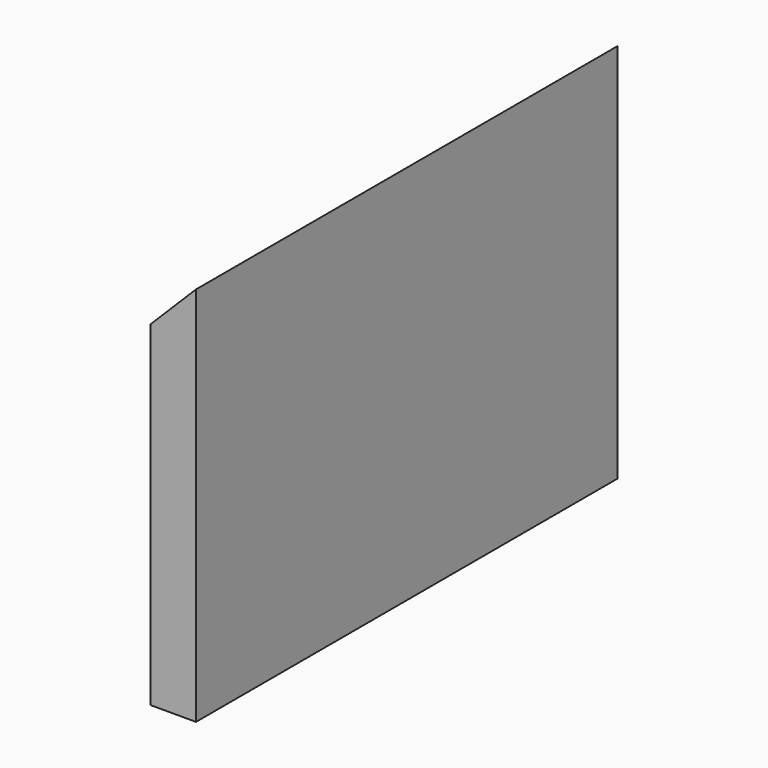
from build123d import *

# Parameters (mm, degrees)
F1_DEPTH = 220
F2_W     = 6
F2_H     = 3
F3_DEPTH = 159.001


with BuildPart() as f1:
    # F0 (on Front) → F1 (new body)
    with BuildSketch(Plane.XZ):
        Polygon((0, 140), (0, 0), (19, 0), (19, 159), align=None)
    extrude(amount=-F1_DEPTH)

    # F2 (on face) → F3 (cut, through all)
    with BuildSketch(Plane(origin=(0, 0, 0), x_dir=(1, 0, 0), z_dir=(0, 0, -1))):
        with Locations((3, -20.5)):
            Rectangle(F2_W, F2_H)
    extrude(amount=-F3_DEPTH, mode=Mode.SUBTRACT)


solid = f1.part
